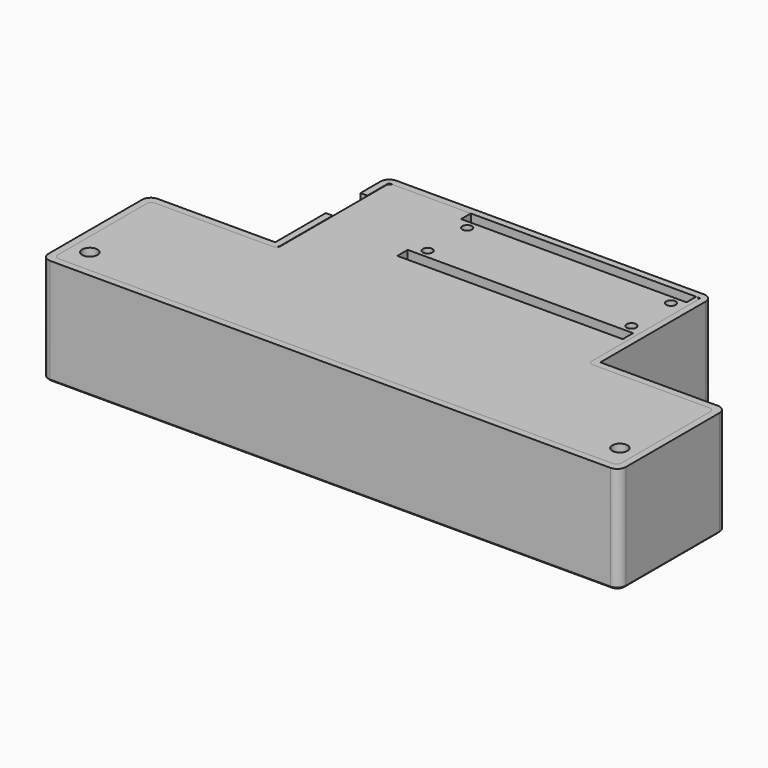
from build123d import *

# Parameters (mm, degrees)
PAD_DEPTH               = 24.5
POCKET_DEPTH            = 19.5
SKETCH002_W             = 119.6
SKETCH002_H             = 13.2
POCKET001_DEPTH         = 3
SKETCH003_R             = 5
POCKET002_DEPTH         = 2.001
SKETCH007_R             = 3.25
SKETCH007_W             = 30
SKETCH007_H             = 3
POCKET003_DEPTH         = 3
SKETCH008_W             = 10
SKETCH008_H             = 10
POCKET004_DEPTH         = 5
CHAMFER_SIZE            = 0.4
BODY_PLACEMENT_ANGLE    = 180
PAD001_DEPTH            = 5
SKETCH009_R             = 1.1
SKETCH009_W             = 52
SKETCH009_H             = 2.8
SKETCH009_H_2           = 3
POCKET005_DEPTH         = 3
SKETCH010_R             = 1.75
POCKET006_DEPTH         = 5.001
SKETCH011_R             = 3.25
POCKET007_DEPTH         = 2.6
POCKET008_DEPTH         = 0.2
SKETCH013_W             = 3.5
SKETCH013_H             = 3.5
POCKET009_DEPTH         = 0.2
CHAMFER001_SIZE         = 0.4
BODY001_PLACEMENT_ANGLE = 180


with BuildPart() as cover:
    # Sketch → Pad (new body)
    with BuildSketch(Plane.XY):
        with BuildLine():
            Line((2, 0), (131.2, 0))
            ThreePointArc((131.2, 0), (132.614214, 0.585786), (133.2, 2))
            Line((133.2, 2), (133.2, 29))
            ThreePointArc((133.2, 29), (132.614214, 30.414214), (131.2, 31))
            Line((131.2, 31), (104.1, 31))
            Line((104.1, 31), (104.1, 61.39))
            ThreePointArc((104.1, 61.39), (103.514214, 62.804214), (102.1, 63.39))
            Line((102.1, 63.39), (31.1, 63.39))
            ThreePointArc((31.1, 63.39), (29.685786, 62.804214), (29.1, 61.39))
            Line((29.1, 61.39), (29.1, 31))
            Line((29.1, 31), (2, 31))
            ThreePointArc((2, 31), (0.585786, 30.414214), (0, 29))
            Line((0, 29), (0, 2))
            ThreePointArc((0, 2), (0.585786, 0.585786), (2, 0))
        make_face()
    extrude(amount=PAD_DEPTH)

    # Sketch001 (on Face15 of Pad) → Pocket (cut)
    with BuildSketch(Plane(origin=(0, 0, 0), x_dir=(1, 0, 0), z_dir=(0, 0, -1))):
        with BuildLine():
            Line((2.6, -1.6), (130.6, -1.6))
            ThreePointArc((131.6, -2.6), (131.307107, -1.892893), (130.6, -1.6))
            Line((131.6, -2.6), (131.6, -28.4))
            ThreePointArc((130.6, -29.4), (131.307107, -29.107107), (131.6, -28.4))
            Line((130.6, -29.4), (103.5, -29.4))
            ThreePointArc((103.5, -29.4), (102.792893, -29.692893), (102.5, -30.4))
            Line((102.5, -30.4), (102.5, -61.79))
            Line((102.5, -61.79), (30.7, -61.79))
            Line((30.7, -61.79), (30.7, -30.4))
            ThreePointArc((30.7, -30.4), (30.407107, -29.692893), (29.7, -29.4))
            Line((29.7, -29.4), (2.6, -29.4))
            ThreePointArc((1.6, -28.4), (1.892893, -29.107107), (2.6, -29.4))
            Line((1.6, -28.4), (1.6, -2.6))
            ThreePointArc((2.6, -1.6), (1.892893, -1.892893), (1.6, -2.6))
        make_face()
    extrude(amount=-POCKET_DEPTH, mode=Mode.SUBTRACT)

    # Sketch002 (on Face31 of Pocket) → Pocket001 (cut)
    with BuildSketch(Plane(origin=(0, 0, 19.5), x_dir=(1, 0, 0), z_dir=(0, 0, -1))):
        with Locations((66.6, -15.6)):
            Rectangle(SKETCH002_W, SKETCH002_H)
    extrude(amount=-POCKET001_DEPTH, mode=Mode.SUBTRACT)

    # Sketch003 (on Face36 of Pocket001) → Pocket002 (cut, through all)
    with BuildSketch(Plane(origin=(0, 0, 22.5), x_dir=(1, 0, 0), z_dir=(0, 0, -1))):
        with Locations((59.05, -15.6)):
            Circle(SKETCH003_R)
        with Locations((43.55, -15.6)):
            Circle(SKETCH003_R)
        with Locations((74.4, -15.6)):
            Circle(SKETCH003_R)
        with Locations((28.05, -15.6)):
            Circle(SKETCH003_R)
        with Locations((13.05, -15.6)):
            Circle(SKETCH003_R)
        with Locations((89.65, -15.6)):
            Circle(SKETCH003_R)
        with Locations((104.9, -15.6)):
            Circle(SKETCH003_R)
        with Locations((119.9, -15.6)):
            Circle(SKETCH003_R)
    extrude(amount=-POCKET002_DEPTH, mode=Mode.SUBTRACT)

    # Sketch007 (on Face39 of Pocket002) → Pocket003 (cut)
    with BuildSketch(Plane(origin=(0, 0, 19.5), x_dir=(1, 0, 0), z_dir=(0, 0, -1))):
        with Locations((5.45, -5.45)):
            Circle(SKETCH007_R)
        with Locations((127.75, -5.45)):
            Circle(SKETCH007_R)
        with Locations((66.6, -41.7)):
            Rectangle(SKETCH007_W, SKETCH007_H)
    extrude(amount=-POCKET003_DEPTH, mode=Mode.SUBTRACT)

    # Sketch008 (on Face13 of Pocket003) → Pocket004 (cut)
    with BuildSketch(Plane.YZ.offset(104.1)):
        with Locations((50.59, 5)):
            Rectangle(SKETCH008_W, SKETCH008_H)
    extrude(amount=-POCKET004_DEPTH, mode=Mode.SUBTRACT)

    # Chamfer
    chamfer_edges = [cover.edges().sort_by_distance(p)[0] for p in [
        (66.6, 0, 24.5),
        (0.585786, 0.585786, 24.5),
        (132.614214, 0.585786, 24.5),
        (0, 15.5, 24.5),
        (133.2, 15.5, 24.5),
        (0.585786, 30.414214, 24.5),
        (132.614214, 30.414214, 24.5),
        (15.55, 31, 24.5),
        (117.65, 31, 24.5),
        (29.1, 46.195, 24.5),
        (104.1, 46.195, 24.5),
        (29.685786, 62.804214, 24.5),
        (103.514214, 62.804214, 24.5),
        (66.6, 63.39, 24.5),
        (8.05, 15.6, 24.5),
        (23.05, 15.6, 24.5),
        (38.55, 15.6, 24.5),
        (54.05, 15.6, 24.5),
        (69.4, 15.6, 24.5),
        (84.65, 15.6, 24.5),
        (99.9, 15.6, 24.5),
        (114.9, 15.6, 24.5),
    ]]
    chamfer(chamfer_edges, length=CHAMFER_SIZE)


with BuildPart() as cover_1:
    # Body placement: moved
    add(cover.part.rotate(Axis((0, 0, 0), (0, 1, 0)), BODY_PLACEMENT_ANGLE))


with BuildPart() as base:
    # Sketch006 → Pad001 (new body)
    with BuildSketch(Plane.XY):
        with BuildLine():
            Line((2.6, 29.4), (29.6, 29.4))
            ThreePointArc((29.6, 29.4), (30.307107, 29.692893), (30.6, 30.4))
            Line((30.6, 30.4), (30.6, 60.79))
            ThreePointArc((31.6, 61.79), (30.892893, 61.497107), (30.6, 60.79))
            Line((31.6, 61.79), (101.4, 61.79))
            ThreePointArc((102.4, 60.79), (102.107107, 61.497107), (101.4, 61.79))
            Line((102.4, 60.79), (102.4, 30.4))
            ThreePointArc((102.4, 30.4), (102.692893, 29.692893), (103.4, 29.4))
            Line((103.4, 29.4), (130.6, 29.4))
            ThreePointArc((131.6, 28.4), (131.307107, 29.107107), (130.6, 29.4))
            Line((131.6, 28.4), (131.6, 2.6))
            ThreePointArc((130.6, 1.6), (131.307107, 1.892893), (131.6, 2.6))
            Line((130.6, 1.6), (2.6, 1.6))
            ThreePointArc((1.6, 2.6), (1.892893, 1.892893), (2.6, 1.6))
            Line((1.6, 28.4), (1.6, 2.6))
            ThreePointArc((2.6, 29.4), (1.892893, 29.107107), (1.6, 28.4))
        make_face()
    extrude(amount=PAD001_DEPTH)

    # Sketch009 (on Face17 of Pad001) → Pocket005 (cut)
    with BuildSketch(Plane(origin=(0, 0, 0), x_dir=(1, 0, 0), z_dir=(0, 0, -1))):
        with Locations((33.6, -45.59)):
            Circle(SKETCH009_R)
        with Locations((33.6, -56.99)):
            Circle(SKETCH009_R)
        with Locations((80.6, -45.59)):
            Circle(SKETCH009_R)
        with Locations((80.6, -56.99)):
            Circle(SKETCH009_R)
        with Locations((57.6, -60.39)):
            Rectangle(SKETCH009_W, SKETCH009_H)
        with Locations((57.6, -42.09)):
            Rectangle(SKETCH009_W, SKETCH009_H_2)
    extrude(amount=-POCKET005_DEPTH, mode=Mode.SUBTRACT)

    # Sketch010 (on Face5 of Pocket005) → Pocket006 (cut, through all)
    with BuildSketch(Plane.XY.offset(5)):
        with Locations((5.45, 7.1)):
            Circle(SKETCH010_R)
        with Locations((127.75, 7.1)):
            Circle(SKETCH010_R)
    extrude(amount=-POCKET006_DEPTH, mode=Mode.SUBTRACT)

    # Sketch011 (on Face5 of Pocket006) → Pocket007 (cut)
    with BuildSketch(Plane.XY.offset(5)):
        with Locations((5.45, 7.1)):
            Circle(SKETCH011_R)
        with Locations((127.75, 7.1)):
            Circle(SKETCH011_R)
    extrude(amount=-POCKET007_DEPTH, mode=Mode.SUBTRACT)

    # Sketch012 (on Face35 of Pocket007) → Pocket008 (cut)
    with BuildSketch(Plane.XY.offset(2.4)):
        with BuildLine():
            Line((3.7, 4.361387), (3.7, 9.838613))
            ThreePointArc((7.2, 9.838613), (5.45, 10.35), (3.7, 9.838613))
            Line((7.2, 9.838613), (7.2, 4.361387))
            ThreePointArc((3.7, 4.361387), (5.45, 3.85), (7.2, 4.361387))
        make_face()
        with BuildLine():
            Line((126, 4.361387), (126, 9.838613))
            ThreePointArc((129.5, 9.838613), (127.75, 10.35), (126, 9.838613))
            Line((129.5, 9.838613), (129.5, 4.361387))
            ThreePointArc((126, 4.361387), (127.75, 3.85), (129.5, 4.361387))
        make_face()
    extrude(amount=-POCKET008_DEPTH, mode=Mode.SUBTRACT)

    # Sketch013 (on Face36 of Pocket008) → Pocket009 (cut)
    with BuildSketch(Plane.XY.offset(2.2)):
        with Locations((5.45, 7.1)):
            Rectangle(SKETCH013_W, SKETCH013_H)
        with Locations((127.75, 7.1)):
            Rectangle(SKETCH013_W, SKETCH013_H)
    extrude(amount=-POCKET009_DEPTH, mode=Mode.SUBTRACT)

    # Chamfer001
    chamfer001_edges = [base.edges().sort_by_distance(p)[0] for p in [
        (1.6, 15.5, 5),
    ]]
    chamfer(chamfer001_edges, length=CHAMFER001_SIZE)


with BuildPart() as base_1:
    # Body001 placement: moved
    add(base.part.rotate(Axis((0, 0, 0), (0, 1, 0)), BODY001_PLACEMENT_ANGLE))


solid = Compound([cover_1.part, base_1.part])
